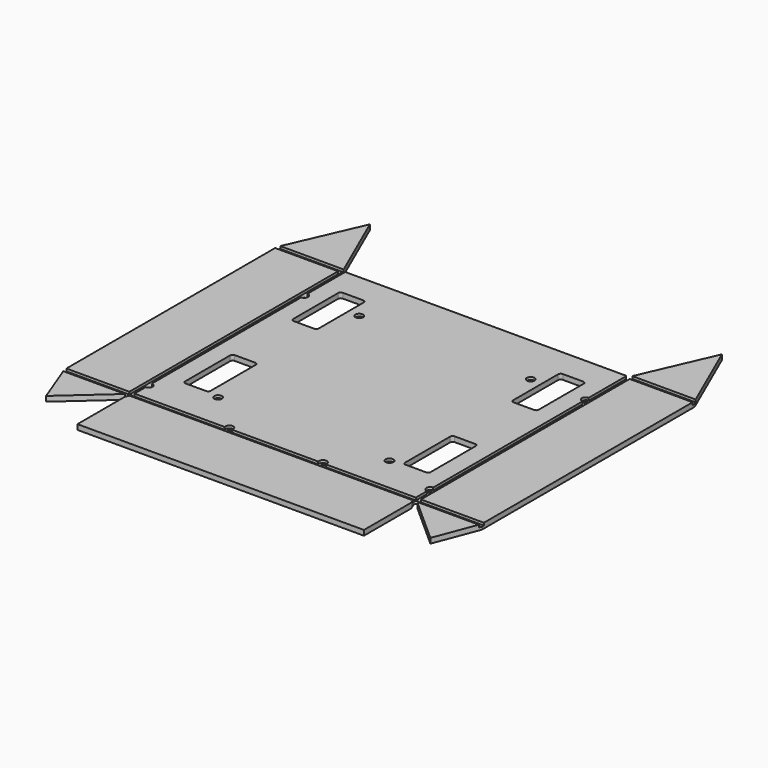
from build123d import *

# Parameters (mm, degrees)
F0_W     = 31.75
F0_H     = 76.2
F1_DEPTH = 6.35
F2_R     = 3.175
F3_D     = 3.571875
F3_DEPTH = 6.35
F3_TIP   = 1.0730995118
F4_D     = 3.571875
F4_DEPTH = 6.35
F4_TIP   = 1.0730995118
F5_D     = 3.571875
F5_DEPTH = 6.35
F5_TIP   = 1.0730995118
F6_D     = 3.571875
F6_DEPTH = 6.35
F6_TIP   = 1.0730995118
F8_W     = 6.35
F8_H     = 3.175
F8_W_2   = 3.175
F8_R     = 4.7625
F9_DEPTH = 3.175


with BuildPart() as f1:
    # F0 (on Top) → F1 (new body)
    with BuildSketch(Plane.XY):
        with BuildLine():
            Line((-214.7351622299, 204.8668485281), (-255.4005622299, 111.76))
            Line((-255.4005622299, 111.76), (-255.4005622299, -218.44))
            Line((-255.4005622299, -218.44), (-234.7822986447, -272.557344269))
            Line((-234.7822986447, -272.557344269), (-177.5025209361, -221.4998587321))
            Line((-177.5025209361, -221.4998587321), (-176.8182807956, -220.0294246425))
            ThreePointArc((-176.8182807956, -220.0294246425), (-176.9483641806, -217.1004941921), (-174.6239189854, -215.3137346097))
            ThreePointArc((-174.6239189854, -215.3137346097), (-172.0300101247, -216.0068875181), (-170.8947622299, -218.44))
            ThreePointArc((-170.8947622299, -218.44), (-170.9697472144, -219.1259532807), (-171.1911602792, -219.7795058079))
            Line((-171.1911602792, -219.7795058079), (-174.0697622299, -225.9656299303))
            Line((-174.0697622299, -225.9656299303), (-174.0697622299, -299.7708))
            Line((-174.0697622299, -299.7708), (181.5302377701, -299.7708))
            Line((181.5302377701, -299.7708), (181.5302377701, -226.2023711139))
            Line((181.5302377701, -226.2023711139), (178.6329759768, -219.7386528024))
            ThreePointArc((178.6329759768, -219.7386528024), (180.2315849677, -215.5427382067), (184.4274995634, -217.1413471976))
            Line((184.4274995634, -217.1413471976), (187.3247613567, -223.6050655092))
            Line((187.3247613567, -223.6050655092), (242.2427741848, -272.557344269))
            Line((242.2427741848, -272.557344269), (262.8610377701, -218.44))
            Line((262.8610377701, -218.44), (262.8610377701, 111.76))
            Line((262.8610377701, 111.76), (222.1956377701, 204.8668485281))
            Line((222.1956377701, 204.8668485281), (183.0489912197, 115.2373135734))
            Line((183.0489912197, 115.2373135734), (184.1868705219, 113.4986567867))
            ThreePointArc((184.1868705219, 113.4986567867), (184.5728874367, 112.6671427707), (184.7052377701, 111.76))
            ThreePointArc((184.7052377701, 111.76), (182.4373805408, 108.7173503334), (178.8736050182, 110.0213432133))
            Line((178.8736050182, 110.0213432133), (177.735725716, 111.76))
            Line((177.735725716, 111.76), (-170.2752501759, 111.76))
            Line((-170.2752501759, 111.76), (-171.4131294781, 110.0213432133))
            ThreePointArc((-171.4131294781, 110.0213432133), (-175.8084190166, 109.1033672482), (-176.7263949818, 113.4986567867))
            Line((-176.7263949818, 113.4986567867), (-175.5885156795, 115.2373135734))
            Line((-175.5885156795, 115.2373135734), (-214.7351622299, 204.8668485281))
        make_face()
        with Locations((-132.7947622299, -129.54)):
            Rectangle(F0_W, F0_H, mode=Mode.SUBTRACT)
        with Locations((140.2552377701, -129.54)):
            Rectangle(F0_W, F0_H, mode=Mode.SUBTRACT)
        with Locations((-132.7947622299, 38.1)):
            Rectangle(F0_W, F0_H, mode=Mode.SUBTRACT)
        with Locations((140.2552377701, 38.1)):
            Rectangle(F0_W, F0_H, mode=Mode.SUBTRACT)
    extrude(amount=F1_DEPTH)

    # F2
    f2_edges = [f1.edges().sort_by_distance(p)[0] for p in [
        (156.130238, 76.2, 3.175),
        (124.380238, 76.2, 3.175),
        (124.380238, 0, 3.175),
        (156.130238, 0, 3.175),
        (156.130238, -167.64, 3.175),
        (124.380238, -167.64, 3.175),
        (124.380238, -91.44, 3.175),
        (156.130238, -91.44, 3.175),
        (-116.919762, -91.44, 3.175),
        (-116.919762, -167.64, 3.175),
        (-116.919762, 0, 3.175),
        (-148.669762, -167.64, 3.175),
        (-148.669762, 0, 3.175),
        (-148.669762, -91.44, 3.175),
        (-148.669762, 76.2, 3.175),
        (-116.919762, 76.2, 3.175),
    ]]
    fillet(f2_edges, radius=F2_R)

    # F3
    with Locations(Plane(origin=(0, 0, 0), x_dir=(1, 0, 0), z_dir=(0, 0, -1))):
        with Locations((178.3552377701, -48.26)):
            Hole(F3_D / 2, depth=F3_DEPTH)
            with Locations((0, 0, -(F3_DEPTH + F3_TIP / 2))):  # 118° drill point
                Cone(0, F3_D / 2, F3_TIP, mode=Mode.SUBTRACT)

    # F4
    with Locations(Plane(origin=(0, 0, 0), x_dir=(1, 0, 0), z_dir=(0, 0, -1))):
        with Locations((178.3552377701, 193.04)):
            Hole(F4_D / 2, depth=F4_DEPTH)
            with Locations((0, 0, -(F4_DEPTH + F4_TIP / 2))):  # 118° drill point
                Cone(0, F4_D / 2, F4_TIP, mode=Mode.SUBTRACT)

    # F5
    with Locations(Plane(origin=(0, 0, 0), x_dir=(1, 0, 0), z_dir=(0, 0, -1))):
        with Locations((-170.8947622299, 193.04)):
            Hole(F5_D / 2, depth=F5_DEPTH)
            with Locations((0, 0, -(F5_DEPTH + F5_TIP / 2))):  # 118° drill point
                Cone(0, F5_D / 2, F5_TIP, mode=Mode.SUBTRACT)

    # F6
    with Locations(Plane(origin=(0, 0, 0), x_dir=(1, 0, 0), z_dir=(0, 0, -1))):
        with Locations((-170.8947622299, -48.26), (-102.6322622299, -48.26), (110.0927377701, -48.26), (110.0927377701, 170.815), (-102.6322622299, 170.815), (-54.3722622299, 213.6775), (61.8327377701, 213.6775)):
            Hole(F6_D / 2, depth=F6_DEPTH)
            with Locations((0, 0, -(F6_DEPTH + F6_TIP / 2))):  # 118° drill point
                Cone(0, F6_D / 2, F6_TIP, mode=Mode.SUBTRACT)

    # F8 (on face) → F9 (cut)
    with BuildSketch(Plane.XY.offset(6.35)):
        with Locations((-174.0697622299, -216.8525)):
            Rectangle(F8_W, F8_H)
        Polygon((-170.8947622299, -215.265), (-170.8947622299, -218.44), (-177.2447622299, -218.44), (-177.2447622299, -215.265), (-255.4005622299, -215.265), (-255.4005622299, -218.44), (-254.190913313, -221.615), (261.6513888531, -221.615), (262.8610377701, -218.44), (262.8610377701, -215.265), (184.7052377701, -215.265), (184.7052377701, -218.44), (178.3552377701, -218.44), (178.3552377701, -215.265), (66.5952377701, -215.265), (66.3228658306, -215.265), (57.3426097095, -215.265), (57.0702377701, -215.265), (-49.6097622299, -215.265), (-49.8821341694, -215.265), (-58.8623902905, -215.265), (-59.1347622299, -215.265), align=None)
        with BuildLine():
            Line((-177.2447622299, -215.265), (-170.8947622299, -215.265))
            Line((-170.8947622299, -215.265), (-170.8947622299, -197.8025))
            ThreePointArc((-170.8947622299, -197.8025), (-175.6572622299, -193.04), (-170.8947622299, -188.2775))
            Line((-170.8947622299, -188.2775), (-170.8947622299, 43.4975))
            ThreePointArc((-170.8947622299, 43.4975), (-175.6572622299, 48.26), (-170.8947622299, 53.0225))
            Line((-170.8947622299, 53.0225), (-170.8947622299, 111.76))
            Line((-170.8947622299, 111.76), (-174.0697622299, 111.76))
            Line((-174.0697622299, 111.76), (-174.0697622299, 108.585))
            Line((-174.0697622299, 108.585), (-177.2447622299, 108.585))
            Line((-177.2447622299, 108.585), (-177.2447622299, -215.265))
        make_face()
        with BuildLine():
            ThreePointArc((-170.8947622299, -188.2775), (-175.6572622299, -193.04), (-170.8947622299, -197.8025))
            Line((-170.8947622299, -197.8025), (-170.8947622299, -188.2775))
        make_face()
        with BuildLine():
            Line((-170.8947622299, -188.2775), (-170.8947622299, -197.8025))
            ThreePointArc((-170.8947622299, -197.8025), (-167.5271661845, -196.4075960454), (-166.1322622299, -193.04))
            ThreePointArc((-166.1322622299, -193.04), (-167.5271661845, -189.6724039546), (-170.8947622299, -188.2775))
        make_face()
        with BuildLine():
            Line((-59.1347622299, -213.6775), (-59.1347622299, -215.265))
            Line((-59.1347622299, -215.265), (-58.8623902905, -215.265))
            ThreePointArc((-58.8623902905, -215.265), (-59.0661753703, -214.4828481737), (-59.1347622299, -213.6775))
        make_face()
        Polygon((-255.4005622299, 108.585), (-177.2447622299, 108.585), (-177.2447622299, 111.76), (-174.0697622299, 111.76), (-174.0697622299, 114.935), (-254.0138474282, 114.935), (-255.4005622299, 111.76), align=None)
        with Locations((-175.6572622299, 110.1725)):
            Rectangle(F8_W_2, F8_H)
        with BuildLine():
            ThreePointArc((-59.1347622299, -213.6775), (-59.0661753703, -214.4828481737), (-58.8623902905, -215.265))
            Line((-58.8623902905, -215.265), (-49.8821341694, -215.265))
            ThreePointArc((-49.8821341694, -215.265), (-49.6783490896, -214.4828481737), (-49.6097622299, -213.6775))
            ThreePointArc((-49.6097622299, -213.6775), (-54.3722622299, -208.915), (-59.1347622299, -213.6775))
        make_face()
        with BuildLine():
            ThreePointArc((-170.8947622299, 53.0225), (-175.6572622299, 48.26), (-170.8947622299, 43.4975))
            Line((-170.8947622299, 43.4975), (-170.8947622299, 53.0225))
        make_face()
        with BuildLine():
            Line((-170.8947622299, 53.0225), (-170.8947622299, 43.4975))
            ThreePointArc((-170.8947622299, 43.4975), (-167.5271661845, 44.8924039546), (-166.1322622299, 48.26))
            ThreePointArc((-166.1322622299, 48.26), (-167.5271661845, 51.6275960454), (-170.8947622299, 53.0225))
        make_face()
        with BuildLine():
            ThreePointArc((-49.6097622299, -213.6775), (-49.6783490896, -214.4828481737), (-49.8821341694, -215.265))
            Line((-49.8821341694, -215.265), (-49.6097622299, -215.265))
            Line((-49.6097622299, -215.265), (-49.6097622299, -213.6775))
        make_face()
        with BuildLine():
            Line((57.0702377701, -213.6775), (57.0702377701, -215.265))
            Line((57.0702377701, -215.265), (57.3426097095, -215.265))
            ThreePointArc((57.3426097095, -215.265), (57.1388246297, -214.4828481737), (57.0702377701, -213.6775))
        make_face()
        with BuildLine():
            ThreePointArc((57.0702377701, -213.6775), (57.1388246297, -214.4828481737), (57.3426097095, -215.265))
            Line((57.3426097095, -215.265), (66.3228658306, -215.265))
            ThreePointArc((66.3228658306, -215.265), (66.5266509104, -214.4828481737), (66.5952377701, -213.6775))
            ThreePointArc((66.5952377701, -213.6775), (61.8327377701, -208.915), (57.0702377701, -213.6775))
        make_face()
        with BuildLine():
            ThreePointArc((66.5952377701, -213.6775), (66.5266509104, -214.4828481737), (66.3228658306, -215.265))
            Line((66.3228658306, -215.265), (66.5952377701, -215.265))
            Line((66.5952377701, -215.265), (66.5952377701, -213.6775))
        make_face()
        with Locations((181.5302377701, -216.8525)):
            Rectangle(F8_W, F8_H)
        with BuildLine():
            Line((178.3552377701, -215.265), (184.7052377701, -215.265))
            Line((184.7052377701, -215.265), (184.7052377701, 108.585))
            Line((184.7052377701, 108.585), (181.5302377701, 108.585))
            Line((181.5302377701, 108.585), (181.5302377701, 111.76))
            Line((181.5302377701, 111.76), (178.3552377701, 111.76))
            Line((178.3552377701, 111.76), (178.3552377701, 53.0225))
            ThreePointArc((178.3552377701, 53.0225), (181.7228338155, 51.6275960454), (183.1177377701, 48.26))
            ThreePointArc((183.1177377701, 48.26), (181.7228338155, 44.8924039546), (178.3552377701, 43.4975))
            Line((178.3552377701, 43.4975), (178.3552377701, -188.2775))
            ThreePointArc((178.3552377701, -188.2775), (181.7228338155, -189.6724039546), (183.1177377701, -193.04))
            ThreePointArc((183.1177377701, -193.04), (181.7228338155, -196.4075960454), (178.3552377701, -197.8025))
            Line((178.3552377701, -197.8025), (178.3552377701, -215.265))
        make_face()
        with Locations((183.1177377701, 110.1725)):
            Rectangle(F8_W_2, F8_H)
        Polygon((184.7052377701, 111.76), (184.7052377701, 108.585), (262.8610377701, 108.585), (262.8610377701, 111.76), (261.4743229683, 114.935), (181.5302377701, 114.935), (181.5302377701, 111.76), align=None)
        with BuildLine():
            ThreePointArc((178.3552377701, -188.2775), (173.5927377701, -193.04), (178.3552377701, -197.8025))
            Line((178.3552377701, -197.8025), (178.3552377701, -188.2775))
        make_face()
        with BuildLine():
            Line((178.3552377701, -188.2775), (178.3552377701, -197.8025))
            ThreePointArc((178.3552377701, -197.8025), (181.7228338155, -196.4075960454), (183.1177377701, -193.04))
            ThreePointArc((183.1177377701, -193.04), (181.7228338155, -189.6724039546), (178.3552377701, -188.2775))
        make_face()
        with BuildLine():
            ThreePointArc((178.3552377701, 53.0225), (173.5927377701, 48.26), (178.3552377701, 43.4975))
            Line((178.3552377701, 43.4975), (178.3552377701, 53.0225))
        make_face()
        with BuildLine():
            Line((178.3552377701, 53.0225), (178.3552377701, 43.4975))
            ThreePointArc((178.3552377701, 43.4975), (181.7228338155, 44.8924039546), (183.1177377701, 48.26))
            ThreePointArc((183.1177377701, 48.26), (181.7228338155, 51.6275960454), (178.3552377701, 53.0225))
        make_face()
        with Locations((-102.6322622299, -170.815)):
            Circle(F8_R)
        with Locations((-102.6322622299, 48.26)):
            Circle(F8_R)
        with Locations((110.0927377701, -170.815)):
            Circle(F8_R)
        with Locations((110.0927377701, 48.26)):
            Circle(F8_R)
    extrude(amount=-F9_DEPTH, mode=Mode.SUBTRACT)


solid = f1.part
